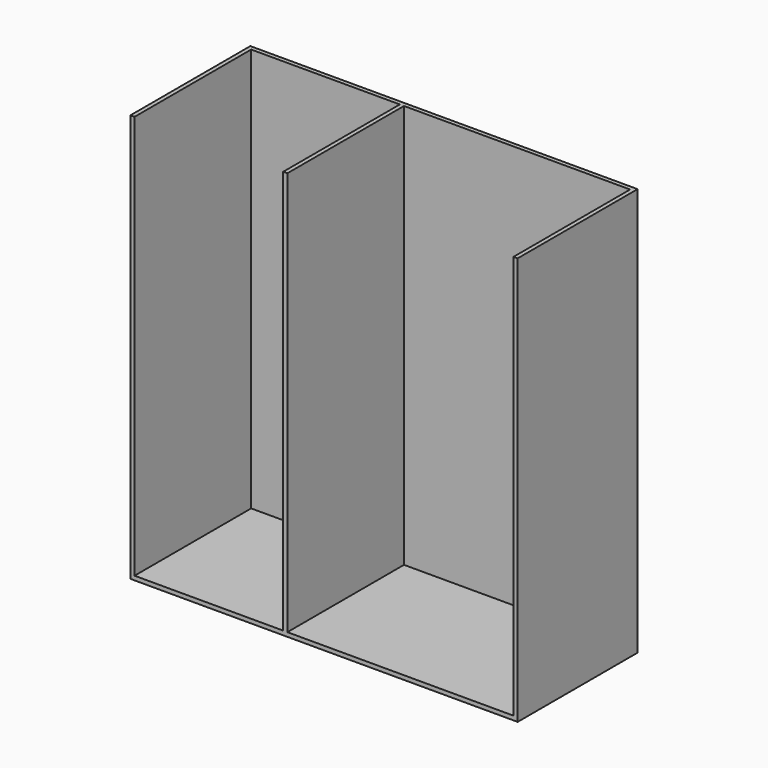
from build123d import *

# Parameters (mm, degrees)
F0_W     = 647.7
F0_H     = 635
F1_DEPTH = 18.034
F0_W_2   = 985.266
F0_W_3   = 18.034
F2_DEPTH = 1778


with BuildPart() as f1:
    # F0 (on Top) → F1 (new body)
    with BuildSketch(Plane.XY):
        with Locations((-501.65, 0)):
            Rectangle(F0_W, F0_H)
    extrude(amount=F1_DEPTH)



with BuildPart() as f1b:
    # F0 (on Top) → F1, piece 2 (new body)
    with BuildSketch(Plane.XY):
        with Locations((332.867, 0)):
            Rectangle(F0_W_2, F0_H)
    extrude(amount=F1_DEPTH)


with BuildPart() as f1_1:
    add(f1.part)

    add(f1b.part)  # F2 merges F1b
    # F0 (on Top) → F2 (join)
    with BuildSketch(Plane.XY):
        with Locations((-834.517, 0)):
            Rectangle(F0_W_3, F0_H)
        with Locations((834.517, 0)):
            Rectangle(F0_W_3, F0_H)
        Polygon((-843.534, 317.5), (-825.5, 317.5), (-177.8, 317.5), (-159.766, 317.5), (825.5, 317.5), (843.534, 317.5), (843.534, 335.534), (-843.534, 335.534), align=None)
        with Locations((-168.783, 0)):
            Rectangle(F0_W_3, F0_H)
    extrude(amount=F2_DEPTH)


solid = f1_1.part
